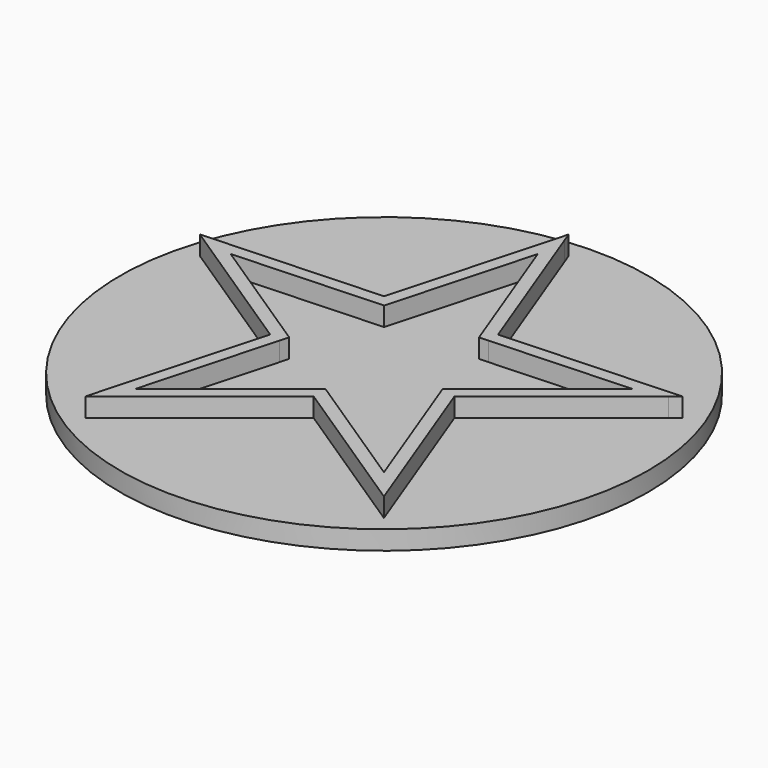
from build123d import *

# Parameters (mm, degrees)
F1_DEPTH = 6
F0_R     = 41.694861
F2_DEPTH = 3


with BuildPart() as f1:
    # F0 (on Top) → F1 (new body)
    with BuildSketch(Plane.XY):
        Polygon((-18.393972, 19.060652), (-46.477814, 17.770472), (-22.999159, 2.306981), (-30.450509, -24.801028), (-8.488552, -7.249981), (14.990103, -22.713471), (5.084683, 3.597162), (25.7176, 20.086097), (27.04664, 21.148209), (-1.037203, 19.858028), (-10.34319, 44.576459), (-10.942622, 46.168661), align=None)
        Polygon((10.949591, -17.657503), (-7.388475, -5.579703), (-8.602003, -4.78045), (-9.737139, -5.687601), (-26.890584, -19.395893), (-21.070687, 1.77689), (-20.685553, 3.178007), (-40.237148, 16.05506), (-16.850634, 17.129444), (-10.645603, 39.703344), (-2.396973, 17.79345), (-0.945419, 17.860135), (20.989542, 18.867834), (2.700961, 4.252391), (3.212937, 2.892488), align=None, mode=Mode.SUBTRACT)
    extrude(amount=F1_DEPTH)

    # F0 (on Top) → F2 (join)
    with BuildSketch(Plane.XY):
        with Locations((-9.16684, 7.514569)):
            Circle(F0_R)
        Polygon((-22.999159, 2.306981), (-46.477814, 17.770472), (-18.393972, 19.060652), (-10.942622, 46.168661), (-10.34319, 44.576459), (-1.037203, 19.858028), (27.04664, 21.148209), (25.7176, 20.086097), (5.084683, 3.597162), (14.990103, -22.713471), (-8.488552, -7.249981), (-30.450509, -24.801028), align=None, mode=Mode.SUBTRACT)
        Polygon((-8.602003, -4.78045), (-7.388475, -5.579703), (10.949591, -17.657503), (3.212937, 2.892488), (2.700961, 4.252391), (20.989542, 18.867834), (-0.945419, 17.860135), (-2.396973, 17.79345), (-10.645603, 39.703344), (-16.850634, 17.129444), (-40.237148, 16.05506), (-20.685553, 3.178007), (-21.070687, 1.77689), (-26.890584, -19.395893), (-9.737139, -5.687601), align=None)
    extrude(amount=F2_DEPTH)


solid = f1.part
